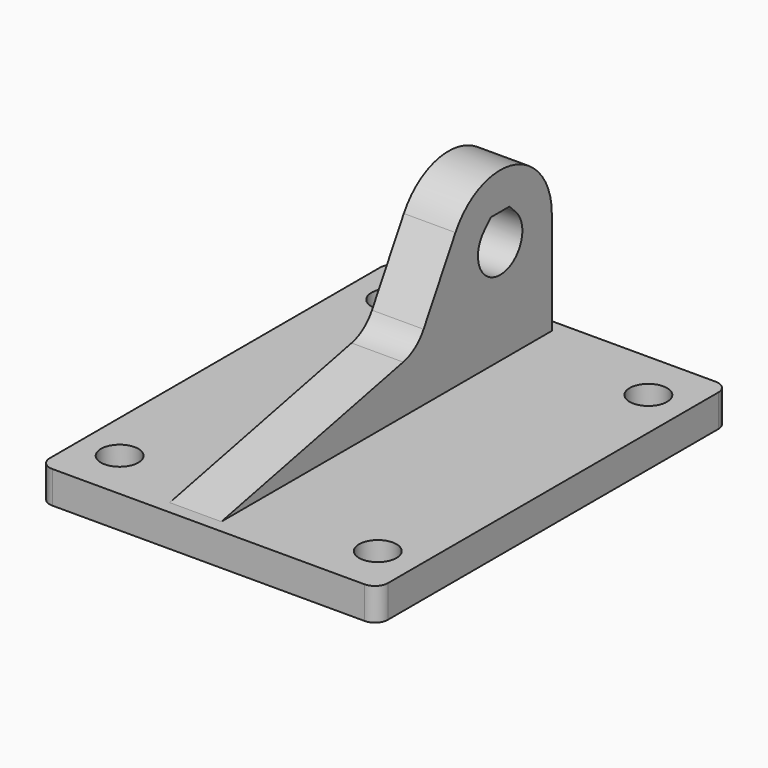
from build123d import *

# Parameters (mm, degrees)
SKETCH_R     = 1.45
PAD_DEPTH    = 2.5
PAD001_DEPTH = 2


with BuildPart() as part:
    # Sketch → Pad (new body)
    with BuildSketch(Plane.XY):
        with BuildLine():
            ThreePointArc((-12.1, 17), (-12.807107, 16.707107), (-13.1, 16))
            Line((-13.1, -16), (-13.1, 16))
            ThreePointArc((-13.1, -16), (-12.807107, -16.707107), (-12.1, -17))
            Line((12.1, -17), (-12.1, -17))
            ThreePointArc((12.1, -17), (12.807107, -16.707107), (13.1, -16))
            Line((13.1, 16), (13.1, -16))
            ThreePointArc((13.1, 16), (12.807107, 16.707107), (12.1, 17))
            Line((-12.1, 17), (12.1, 17))
        make_face()
        with Locations((10, 13.1)):
            Circle(SKETCH_R, mode=Mode.SUBTRACT)
        with Locations((-10, 13.1)):
            Circle(SKETCH_R, mode=Mode.SUBTRACT)
        with Locations((-10, -13.1)):
            Circle(SKETCH_R, mode=Mode.SUBTRACT)
        with Locations((10, -13.1)):
            Circle(SKETCH_R, mode=Mode.SUBTRACT)
    extrude(amount=-PAD_DEPTH)

    # Sketch001 → Pad001 (join, symmetric)
    with BuildSketch(Plane.YZ.offset(-1.8)):
        with BuildLine():
            ThreePointArc((16, 8), (12.294095, 12.829629), (6.669873, 10.5))
            Line((6.669873, 10.5), (3.585892, 5.158388))
            ThreePointArc((1.60844, 3.723286), (2.749885, 4.230403), (3.585892, 5.158388))
            Line((1.60844, 3.723286), (-16, 0))
            Line((-16, 0), (16, 0))
            Line((16, 8), (16, 0))
        make_face()
        with BuildLine():
            Line((9.47972, 9.52028), (10.109441, 10.15))
            Line((10.109441, 10.15), (11.890559, 10.15))
            Line((11.890559, 10.15), (12.52028, 9.52028))
            ThreePointArc((9.47972, 9.52028), (11, 5.85), (12.52028, 9.52028))
        make_face(mode=Mode.SUBTRACT)
    extrude(amount=PAD001_DEPTH, both=True)


solid = part.part
